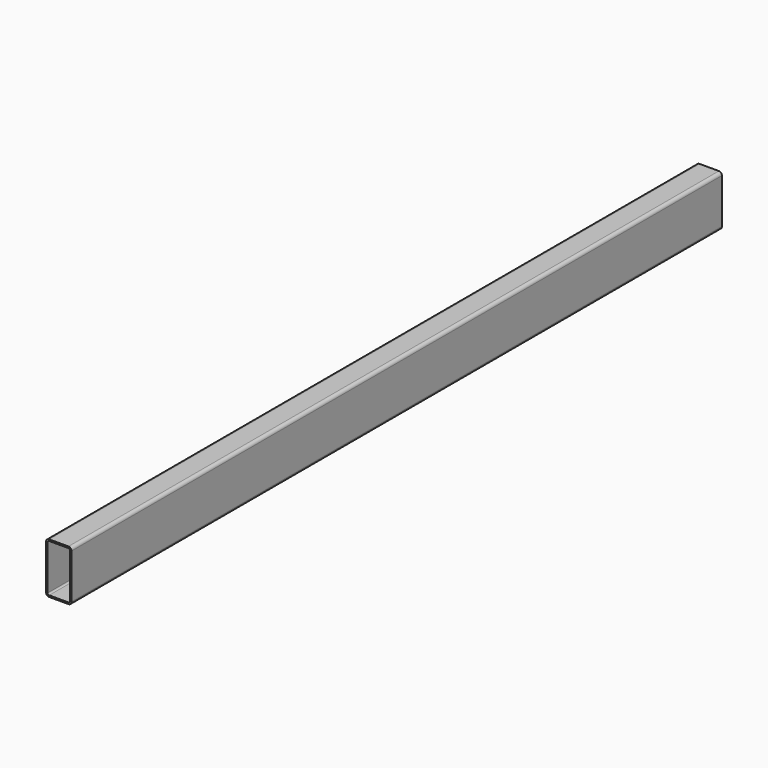
from build123d import *

# Parameters (mm, degrees)
F1_DEPTH = 1600


with BuildPart() as f1:
    # F0 (on Front) → F1 (new body)
    with BuildSketch(Plane.XZ):
        with BuildLine():
            Line((19, 50), (0, 50))
            Line((0, 50), (-19, 50))
            ThreePointArc((-19, 50), (-23.242641, 48.242641), (-25, 44))
            Line((-25, 44), (-25, -44))
            ThreePointArc((-25, -44), (-23.242641, -48.242641), (-19, -50))
            Line((-19, -50), (0, -50))
            Line((0, -50), (19, -50))
            ThreePointArc((19, -50), (23.242641, -48.242641), (25, -44))
            Line((25, -44), (25, 44))
            ThreePointArc((25, 44), (23.242641, 48.242641), (19, 50))
        make_face()
        with BuildLine():
            Line((-19, 47), (0, 47))
            Line((0, 47), (19, 47))
            ThreePointArc((19, 47), (21.12132, 46.12132), (22, 44))
            Line((22, 44), (22, -44))
            ThreePointArc((22, -44), (21.12132, -46.12132), (19, -47))
            Line((19, -47), (0, -47))
            Line((0, -47), (-19, -47))
            ThreePointArc((-19, -47), (-21.12132, -46.12132), (-22, -44))
            Line((-22, -44), (-22, 44))
            ThreePointArc((-22, 44), (-21.12132, 46.12132), (-19, 47))
        make_face(mode=Mode.SUBTRACT)
    extrude(amount=F1_DEPTH)


solid = f1.part
